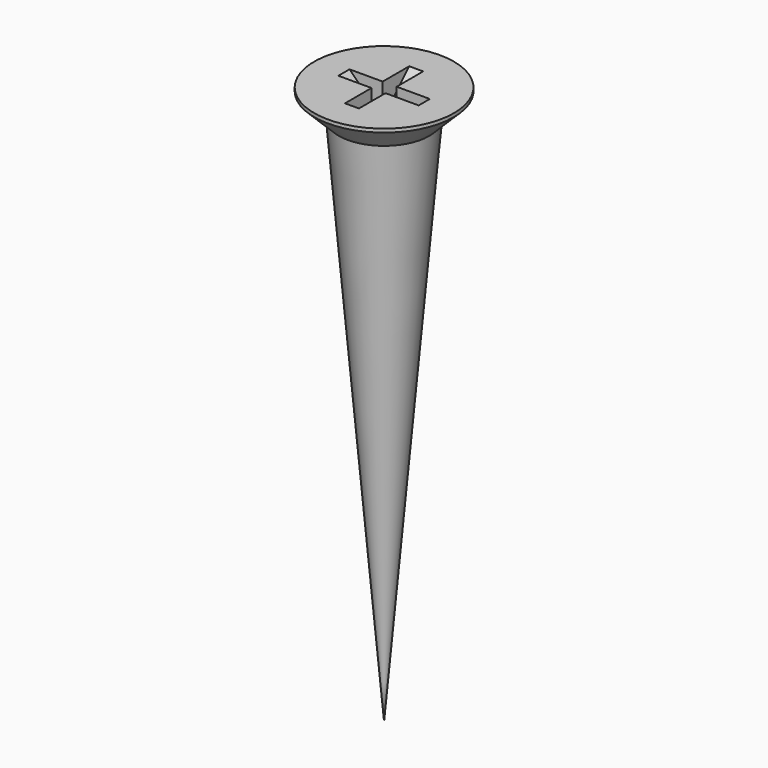
from build123d import *

# Parameters (mm, degrees)
POCKET003_DEPTH       = 0.2
POLARPATTERN002_COUNT = 2
POLARPATTERN002_ANGLE = 90


with BuildPart() as part:
    # Sketch029 → Revolution006 (revolve)
    with BuildSketch(Plane.XZ):
        Polygon((0, 0), (0, -16), (1.3, -0.8), (2, -0.1), (2, 0), align=None)
    revolve(axis=Axis((0, 0, 0), (0, 0, 1)))

    # Sketch030 → Pocket003 (cut, symmetric)
    with BuildSketch(Plane.XZ):
        Polygon((-1.15, 0), (0, -1.15), (1.15, 0), align=None)
    pocket003 = extrude(amount=POCKET003_DEPTH, both=True, mode=Mode.SUBTRACT)

    # PolarPattern002: Pocket003 ×2 about axis
    polarpattern002_axis = Axis((0, 0, 0), (0, 0, 1))
    for i in range(1, POLARPATTERN002_COUNT):
        add(pocket003.rotate(polarpattern002_axis, i * POLARPATTERN002_ANGLE / (POLARPATTERN002_COUNT - 1)), mode=Mode.SUBTRACT)


solid = part.part
